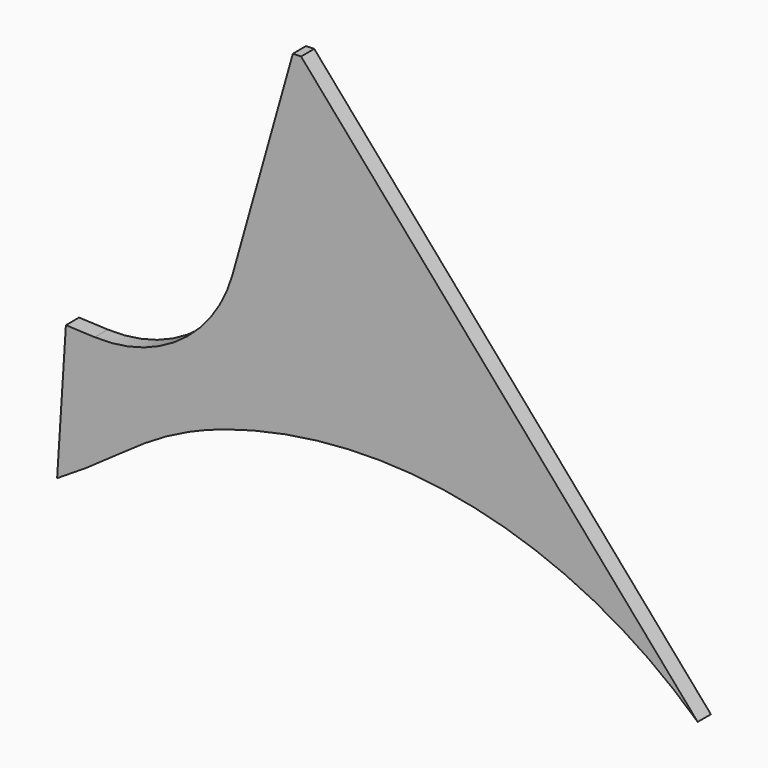
from build123d import *

# Parameters (mm, degrees)
F1_DEPTH = 6


with BuildPart() as f1:
    # F0 (on Front) → F1 (new body)
    with BuildSketch(Plane.XZ):
        with BuildLine():
            Line((-113.7830221973, 196.5653101416), (-116.9823558728, 146.4273122476))
            add(Edge.make_bspline(
                [(-116.9823558728, 146.4273122476), (-91.5295582515, 161.7084143763), (-84.4563773973, 172.3099058233), (-56.413200461, 181.8094376312)],
                knots=[0.6217299922, 0.6217299922, 0.6217299922, 0.6217299922, 1, 1, 1, 1], degree=3))
            ThreePointArc((-56.413200461, 181.8094376312), (35.1094960363, 186.4278723491), (116.4179808184, 144.1589213822))
            Line((116.4179808184, 144.1589213822), (-28.0945999151, 310.6102859554))
            Line((-28.0945999151, 310.6102859554), (-31.1034692521, 310.5229280694))
            Line((-31.1034692521, 310.5229280694), (-53.0575460655, 232.5305113428))
            ThreePointArc((-53.0575460655, 232.5305113428), (-71.8460560006, 205.592638023), (-103.2941289159, 196.1229054773))
            Line((-103.2941289159, 196.1229054773), (-113.7830221973, 196.5653101416))
        make_face()
    extrude(amount=F1_DEPTH)


solid = f1.part
